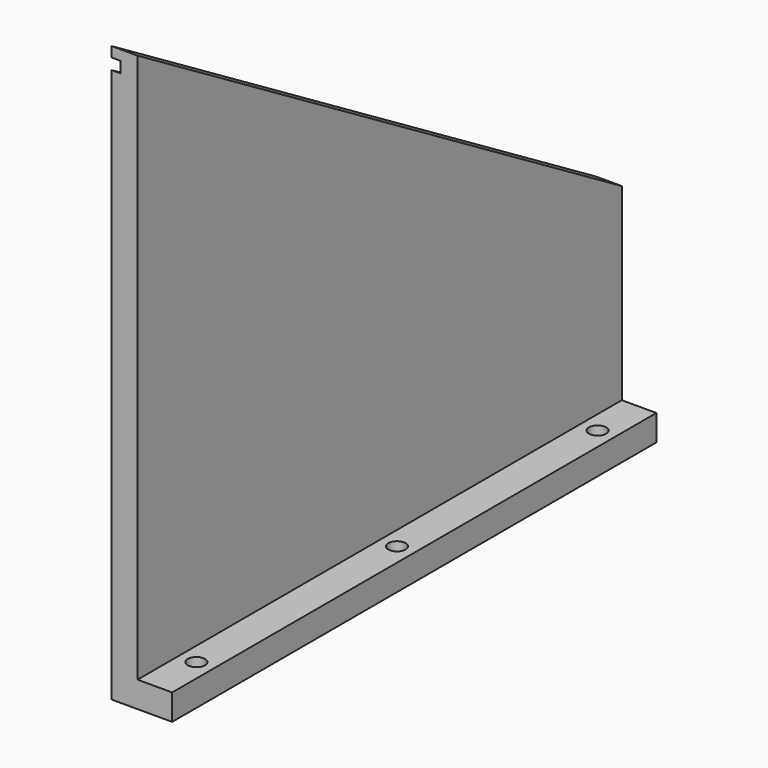
from build123d import *

# Parameters (mm, degrees)
F0_W     = 35
F0_H     = 350
F0_R     = 5
F1_DEPTH = 15
F2_W     = 15
F2_H     = 350
F3_DEPTH = 109
F5_DEPTH = 15
F7_DEPTH = 5


with BuildPart() as f1:
    # F0 (on Top) → F1 (new body)
    with BuildSketch(Plane.XY):
        with Locations((-57.72887, 129.090141)):
            Rectangle(F0_W, F0_H)
        with Locations((-50.22887, -15.909859)):
            Circle(F0_R, mode=Mode.SUBTRACT)
        with Locations((-50.22887, 129.090141)):
            Circle(F0_R, mode=Mode.SUBTRACT)
        with Locations((-50.22887, 274.090141)):
            Circle(F0_R, mode=Mode.SUBTRACT)
    extrude(amount=F1_DEPTH)

    # F2 (on face) → F3 (join)
    with BuildSketch(Plane.XY.offset(15)):
        with Locations((-67.72887, 129.090141)):
            Rectangle(F2_W, F2_H)
    extrude(amount=F3_DEPTH)

    # F4 (on face) → F5 (join)
    with BuildSketch(Plane.YZ.offset(-60.22887)):
        Polygon((-45.909859, 332.642), (-45.909859, 124), (304.090141, 124), align=None)
    extrude(amount=-F5_DEPTH)

    # F6 (on face) → F7 (cut)
    with BuildSketch(Plane(origin=(-75.22887, 0, 0), x_dir=(0, -1, 0), z_dir=(-1, 0, 0))):
        Polygon((45.909859, 320.417912), (45.909859, 326.821006), (-297.235123, 122.265419), (-294.418886, 117.54114), align=None)
    extrude(amount=-F7_DEPTH, mode=Mode.SUBTRACT)


solid = f1.part
